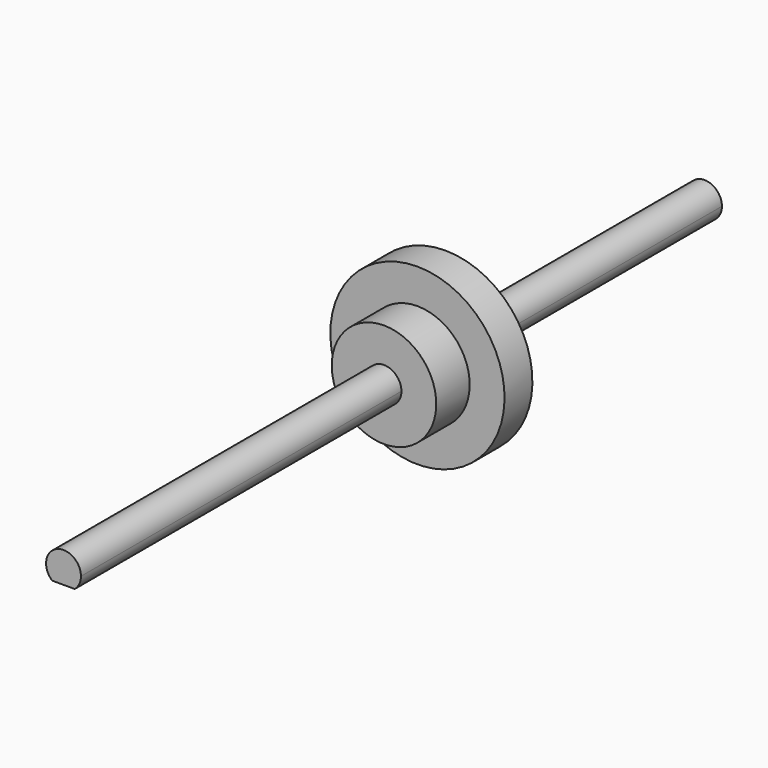
from build123d import *

# Parameters (mm, degrees)
F1_DEPTH = 115
F2_W     = 22
F2_H     = 0.25


with BuildPart() as f1:
    # F0 (on Front) → F1 (new body, symmetric)
    with BuildSketch(Plane.XZ):
        with BuildLine():
            ThreePointArc((3.232074, -3.814931), (4.536539, -2.102336), (5, 0))
            ThreePointArc((5, 0), (-2.102336, 4.536539), (-3.232074, -3.814931))
            Line((-3.232074, -3.814931), (3.232074, -3.814931))
        make_face()
    extrude(amount=F1_DEPTH, both=True)

    # F2 (on Right) → F3 (revolve)
    with BuildSketch(Plane.YZ):
        Polygon((0, 5.25), (22, 5.25), (22, 25), (12, 25), (12, 15), (0, 15), align=None)
        with Locations((11, 5.125)):
            Rectangle(F2_W, F2_H)
    revolve(axis=Axis((0, -3.426552, 0), (0, 1, 0)))


solid = f1.part
